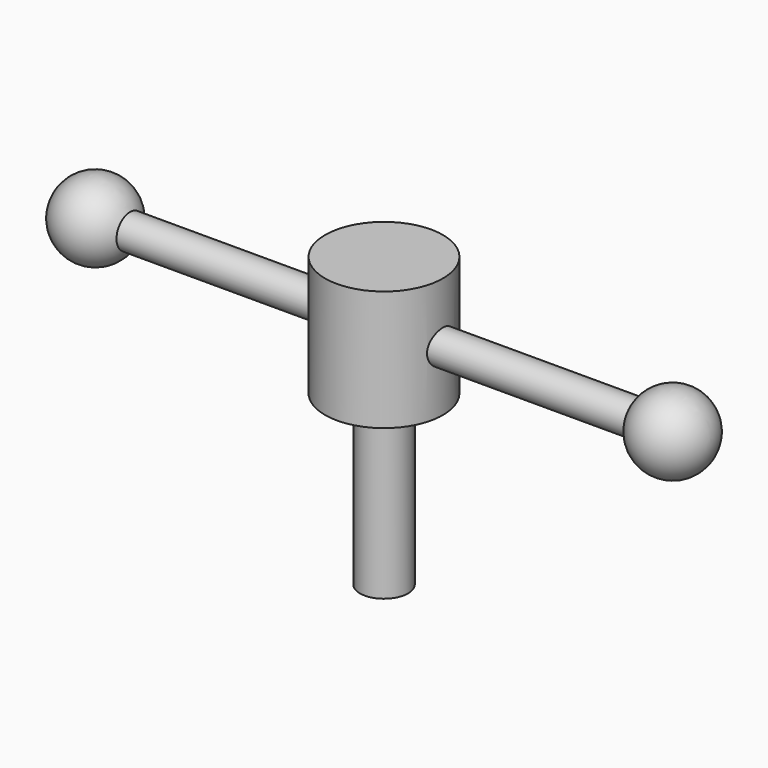
from build123d import *

# Parameters (mm, degrees)
F2_W = 6.35
F2_H = 44.45


with BuildPart() as f1:
    # F0 (on Front) → F1 (revolve)
    with BuildSketch(Plane.XZ):
        with BuildLine():
            ThreePointArc((-67.063941, 4.445), (-66.299294, 2.280706), (-66.04, 0))
            Line((-66.04, 0), (66.04, 0))
            ThreePointArc((66.04, 0), (66.299294, 2.280706), (67.063941, 4.445))
            Line((67.063941, 4.445), (-67.063941, 4.445))
        make_face()
        with BuildLine():
            Line((-86.36, 0), (-66.04, 0))
            ThreePointArc((-66.04, 0), (-66.299294, 2.280706), (-67.063941, 4.445))
            ThreePointArc((-67.063941, 4.445), (-78.480706, 9.900706), (-86.36, 0))
        make_face()
        with BuildLine():
            ThreePointArc((67.063941, 4.445), (66.299294, 2.280706), (66.04, 0))
            Line((66.04, 0), (86.36, 0))
            ThreePointArc((86.36, 0), (78.480706, 9.900706), (67.063941, 4.445))
        make_face()
    revolve(axis=Axis((0, 0, 0), (-1, 0, 0)))

    # F2 (on Front) → F3 (revolve)
    with BuildSketch(Plane.XZ):
        Polygon((0, -15.875), (0, 15.875), (-15.5575, 15.875), (-15.5575, -15.875), (-6.35, -15.875), align=None)
        with Locations((-3.175, -38.1)):
            Rectangle(F2_W, F2_H)
    revolve(axis=Axis((0, 0, -38.1), (0, 0, -1)))


solid = f1.part
